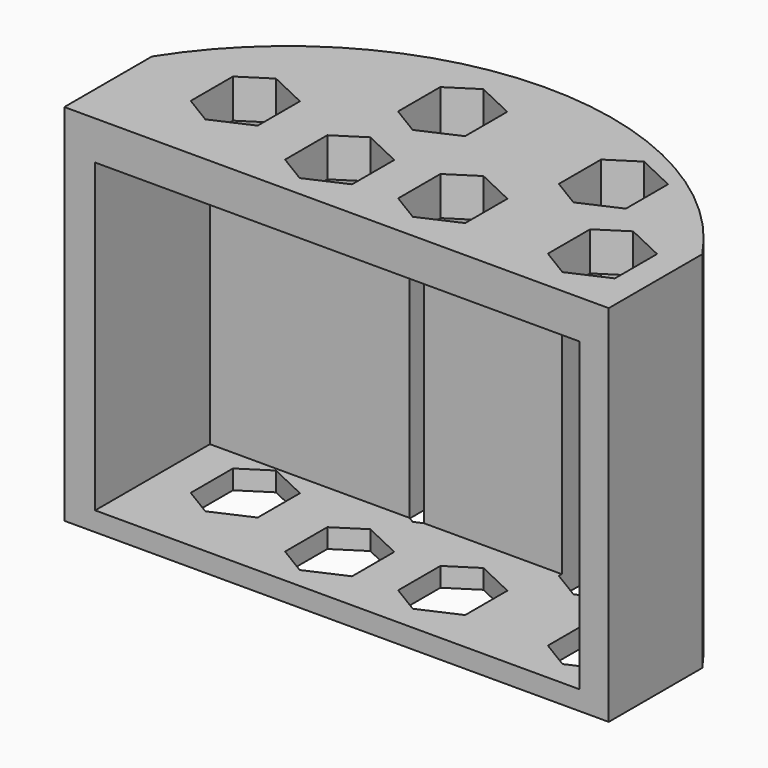
from build123d import *

# Parameters (mm, degrees)
F1_DEPTH = 232.2576
F2_W     = 308.927283
F2_H     = 195.242041
F3_DEPTH = 91.44
F5_DEPTH = 508


with BuildPart() as f1:
    # F0 (on Top) → F1 (new body)
    with BuildSketch(Plane.XY):
        with BuildLine():
            ThreePointArc((-173.357227, 18.40329), (-1.055729, 114.038895), (173.772714, 23.104903))
            ThreePointArc((173.772714, 23.104903), (-1.064562, 114.691102), (-173.357227, 18.40329))
        make_face()
        with BuildLine():
            Line((173.772714, -51.430393), (173.772714, 23.104903))
            ThreePointArc((173.772714, 23.104903), (-1.055729, 114.038895), (-173.357227, 18.40329))
            Line((-173.357227, 18.40329), (-173.357227, -51.430393))
            Line((-173.357227, -51.430393), (173.772714, -51.430393))
        make_face()
    extrude(amount=F1_DEPTH)

    # F2 (on face) → F3 (cut)
    with BuildSketch(Plane.XZ.offset(51.430393)):
        with Locations((0.790856, 109.876665)):
            Rectangle(F2_W, F2_H)
    extrude(amount=-F3_DEPTH, mode=Mode.SUBTRACT)

    # F4 (on face) → F5 (cut)
    with BuildSketch(Plane.XY.offset(232.2576)):
        Polygon((-128.352299, 26.706169), (-128.352299, -6.949546), (-110.229991, -17.952379), (-85.635431, -6.949546), (-85.635431, 26.706169), (-110.229991, 38.356224), align=None)
        Polygon((-52.128345, 6.618178), (-52.128345, -27.037537), (-34.006037, -38.04037), (-9.411477, -27.037537), (-9.411477, 6.618178), (-34.006037, 18.268233), align=None)
        Polygon((17.95378, 9.17491), (17.95378, -24.480805), (36.076088, -35.483638), (60.670648, -24.480805), (60.670648, 9.17491), (36.076088, 20.824965), align=None)
        Polygon((113.401607, 9.17491), (113.401607, -24.480805), (131.523915, -35.483638), (156.118475, -24.480805), (156.118475, 9.17491), (131.523915, 20.824965), align=None)
        Polygon((70.684742, 71.302582), (70.684742, 37.646867), (88.80705, 26.644034), (113.40161, 37.646867), (113.40161, 71.302582), (88.80705, 82.952637), align=None)
        Polygon((-40.650681, 82.305415), (-40.650681, 48.6497), (-22.528373, 37.646867), (2.066188, 48.6497), (2.066188, 82.305415), (-22.528373, 93.95547), align=None)
    extrude(amount=-F5_DEPTH, mode=Mode.SUBTRACT)


solid = f1.part
